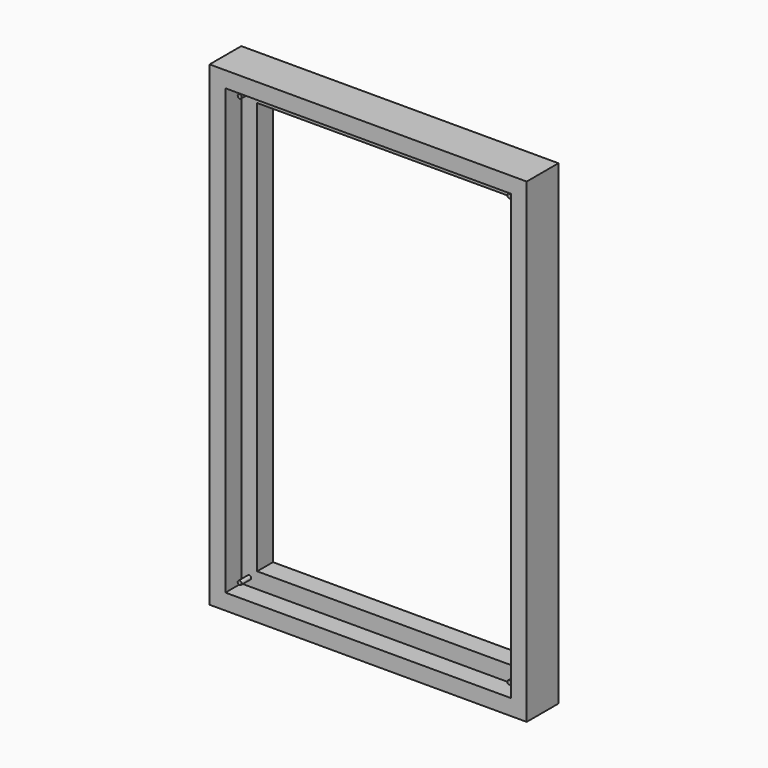
from build123d import *

# Parameters (mm, degrees)
F0_W     = 20
F0_H     = 20
F0_W_2   = 320
F0_H_2   = 520
F1_DEPTH = 50
F0_R     = 2.5
F2_DEPTH = 25
F3_DEPTH = 40


with BuildPart() as f1:
    # F0 (on Front) → F1 (new body)
    with BuildSketch(Plane.XZ):
        with Locations((390, 10)):
            Rectangle(F0_W, F0_H)
        with Locations((370, 10)):
            Rectangle(F0_W, F0_H)
        with Locations((200, 10)):
            Rectangle(F0_W_2, F0_H)
        with Locations((390, 300)):
            Rectangle(F0_W, F0_H_2)
        with Locations((390, 30)):
            Rectangle(F0_W, F0_H)
        with Locations((30, 10)):
            Rectangle(F0_W, F0_H)
        with Locations((10, 10)):
            Rectangle(F0_W, F0_H)
        with Locations((10, 30)):
            Rectangle(F0_W, F0_H)
        with Locations((10, 300)):
            Rectangle(F0_W, F0_H_2)
        with Locations((390, 570)):
            Rectangle(F0_W, F0_H)
        with Locations((390, 590)):
            Rectangle(F0_W, F0_H)
        with Locations((370, 590)):
            Rectangle(F0_W, F0_H)
        with Locations((200, 590)):
            Rectangle(F0_W_2, F0_H)
        with Locations((30, 590)):
            Rectangle(F0_W, F0_H)
        with Locations((10, 590)):
            Rectangle(F0_W, F0_H)
        with Locations((10, 570)):
            Rectangle(F0_W, F0_H)
    extrude(amount=F1_DEPTH)

    # F0 (on Front) → F2 (join)
    with BuildSketch(Plane.XZ):
        with Locations((370, 570)):
            Rectangle(F0_W, F0_H)
        with Locations((370, 570)):
            Circle(F0_R, mode=Mode.SUBTRACT)
        with Locations((200, 570)):
            Rectangle(F0_W_2, F0_H)
        with Locations((370, 300)):
            Rectangle(F0_W, F0_H_2)
        with Locations((30, 570)):
            Rectangle(F0_W, F0_H)
        with Locations((30, 570)):
            Circle(F0_R, mode=Mode.SUBTRACT)
        with Locations((30, 300)):
            Rectangle(F0_W, F0_H_2)
        with Locations((30, 30)):
            Rectangle(F0_W, F0_H)
        with Locations((30, 30)):
            Circle(F0_R, mode=Mode.SUBTRACT)
        with Locations((200, 30)):
            Rectangle(F0_W_2, F0_H)
        with Locations((370, 30)):
            Rectangle(F0_W, F0_H)
        with Locations((370, 30)):
            Circle(F0_R, mode=Mode.SUBTRACT)
    extrude(amount=F2_DEPTH)

    # F0 (on Front) → F3 (join)
    with BuildSketch(Plane.XZ):
        with Locations((370, 30)):
            Circle(F0_R)
        with Locations((30, 30)):
            Circle(F0_R)
        with Locations((30, 570)):
            Circle(F0_R)
        with Locations((370, 570)):
            Circle(F0_R)
    extrude(amount=F3_DEPTH)


solid = f1.part
